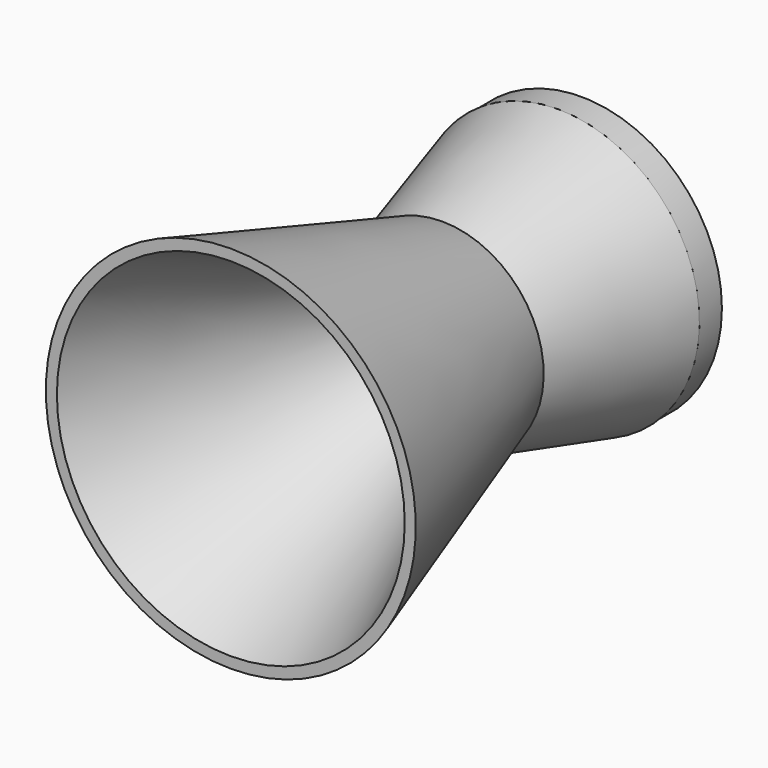
from build123d import *

# Parameters (mm, degrees)
F3_R     = 24.285045
F4_DEPTH = 5


with BuildPart() as f1:
    # F0 (on Right) → F1 (revolve)
    with BuildSketch(Plane.YZ):
        Polygon((0, 10), (25, 20.050405), (25, 24.405243), (0, 17.510081), (-45.635082, 31.937669), (-45.635082, 30.030241), align=None)
    revolve(axis=Axis((0, -13.200605, 0), (0, -1, 0)))

    # F3 (on face) → F4 (join)
    with BuildSketch(Plane(origin=(0, 25, 0), x_dir=(-1, 0, 0), z_dir=(0, 1, 0))):
        Circle(F3_R)
    extrude(amount=F4_DEPTH)


solid = f1.part
